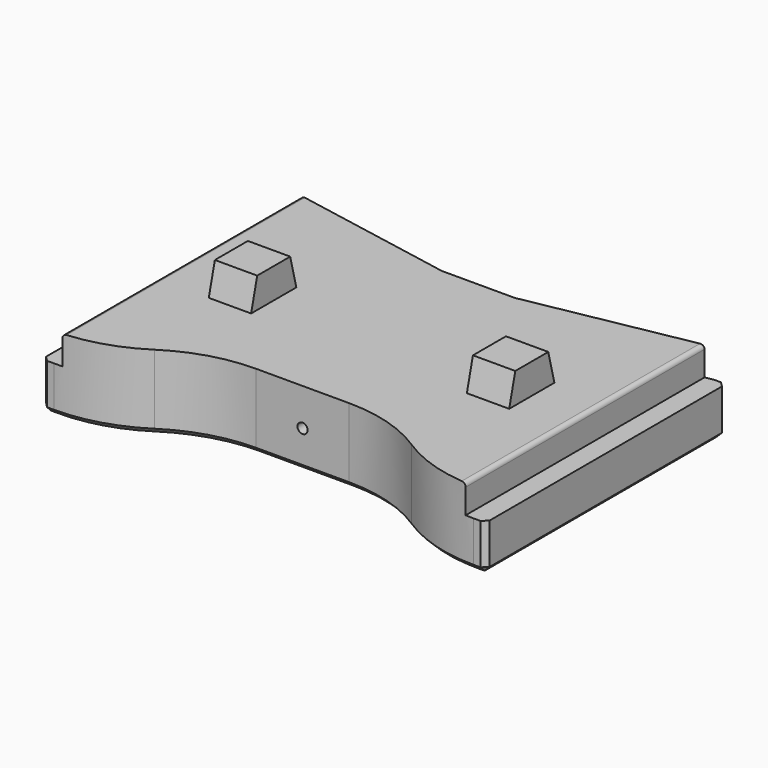
from build123d import *

# Parameters (mm, degrees)
SKETCH_W        = 44
SKETCH_H        = 42
PAD_DEPTH       = 2
SKETCH001_W     = 40
SKETCH001_H     = 42
PAD001_DEPTH    = 2.85
SKETCH002_W     = 4.2
SKETCH002_H     = 5.6
PAD002_DEPTH    = 3
POCKET_DEPTH    = 44.001
SKETCH004_W     = 40
SKETCH004_H     = 8.35
PAD003_DEPTH    = 15
SKETCH005_W     = 40
SKETCH005_H     = 8.35
PAD004_DEPTH    = 15
POCKET001_DEPTH = 42.001
POCKET002_DEPTH = 13.201
FILLET_R        = 0.4
SKETCH008_W     = 44
SKETCH008_H     = 2.55
PAD005_DEPTH    = 42
POCKET003_DEPTH = 2.551
SKETCH009_R     = 0.5
POCKET004_DEPTH = 42.001
POCKET010_DEPTH = 17.851
CHAMFER002_SIZE = 0.5
POCKET017_START = -0.8
SKETCH019_R     = 0.5
POCKET017_DEPTH = 24.2


with BuildPart() as part:
    # Sketch → Pad (new body)
    with BuildSketch(Plane.XY):
        Rectangle(SKETCH_W, SKETCH_H)
    extrude(amount=PAD_DEPTH)

    # Sketch001 (on Face6 of Pad) → Pad001 (join)
    with BuildSketch(Plane.XY.offset(2)):
        Rectangle(SKETCH001_W, SKETCH001_H)
    extrude(amount=PAD001_DEPTH)

    # Sketch002 (on Face8 of Pad001) → Pad002 (join)
    with BuildSketch(Plane.XY.offset(4.85)):
        with Locations((-12.8, -0.1)):
            Rectangle(SKETCH002_W, SKETCH002_H)
        with Locations((12.8, -0.1)):
            Rectangle(SKETCH002_W, SKETCH002_H)
    extrude(amount=PAD002_DEPTH)

    # Sketch003 (on Face1 of Pad002) → Pocket (cut, through all)
    with BuildSketch(Plane.YZ.offset(22)):
        Polygon((-2.9, 4.85), (-2.9, 8.35), (-2.02, 8.35), align=None)
        Polygon((2.7, 8.35), (2.7, 4.85), (1.82, 8.35), align=None)
    extrude(amount=-POCKET_DEPTH, mode=Mode.SUBTRACT)

    # Sketch004 (on Face2 of Pocket) → Pad003 (join)
    with BuildSketch(Plane.XZ.offset(21)):
        with Locations((0, 9.025)):
            Rectangle(SKETCH004_W, SKETCH004_H)
    extrude(amount=-PAD003_DEPTH)

    # Sketch005 (on Face2 of Pad003) → Pad004 (join)
    with BuildSketch(Plane(origin=(0, 21, 0), x_dir=(-1, 0, 0), z_dir=(0, 1, 0))):
        with Locations((0, 9.025)):
            Rectangle(SKETCH005_W, SKETCH005_H)
    extrude(amount=-PAD004_DEPTH)

    # Sketch006 (on Face24 of Pad004) → Pocket001 (cut, through all)
    with BuildSketch(Plane(origin=(-20, 0, 0), x_dir=(0, -1, 0), z_dir=(-1, 0, 0))):
        with BuildLine():
            Line((-21, 13.2), (-20, 13.2))
            ThreePointArc((-20, 13.2), (-20.707107, 12.907107), (-21, 12.2))
            Line((-21, 12.2), (-21, 13.2))
        make_face()
        with BuildLine():
            ThreePointArc((-15, 12.2), (-15.292893, 12.907107), (-16, 13.2))
            Line((-16, 13.2), (-6, 13.2))
            Line((-6, 13.2), (-6, 4.85))
            Line((-6, 4.85), (-18.25, 4.85))
            Line((-18.25, 10.6), (-18.25, 4.85))
            Line((-17.125, 10.6), (-18.25, 10.6))
            ThreePointArc((-17.125, 10.6), (-15.794998, 11.044723), (-15, 12.2))
        make_face()
        with BuildLine():
            Line((18.35, 4.85), (18.35, 11.2))
            Line((18.35, 11.2), (16, 11.2))
            ThreePointArc((16, 13.2), (15, 12.2), (16, 11.2))
            Line((6, 13.2), (16, 13.2))
            Line((6, 4.85), (6, 13.2))
            Line((6, 4.85), (18.35, 4.85))
        make_face()
    extrude(amount=-POCKET001_DEPTH, mode=Mode.SUBTRACT)

    # Sketch007 (on Face18 of Pocket001) → Pocket002 (cut, through all)
    with BuildSketch(Plane(origin=(0, 0, 0), x_dir=(1, 0, 0), z_dir=(0, 0, -1))):
        with BuildLine():
            ThreePointArc((-17, 21), (-20.535534, 19.535534), (-22, 16))
            Line((-22, 21), (-22, 16))
            Line((-17, 21), (-22, 21))
        make_face()
        with BuildLine():
            ThreePointArc((22, 16), (20.535534, 19.535534), (17, 21))
            Line((22, 21), (17, 21))
            Line((22, 16), (22, 21))
        make_face()
        with BuildLine():
            ThreePointArc((17, -21), (20.535534, -19.535534), (22, -16))
            Line((22, -21), (22, -16))
            Line((22, -21), (17, -21))
        make_face()
        with BuildLine():
            ThreePointArc((-22, -16), (-20.535534, -19.535534), (-17, -21))
            Line((-22, -21), (-17, -21))
            Line((-22, -16), (-22, -21))
        make_face()
    extrude(amount=-POCKET002_DEPTH, mode=Mode.SUBTRACT)

    # Fillet
    fillet_edges = [part.edges().sort_by_distance(p)[0] for p in [
        (0, -21, 13.2),
        (20, -18, 13.2),
        (-20, -18, 13.2),
        (20, -18.35, 8.025),
        (-20, -18.35, 8.025),
        (-20, 18, 13.2),
        (20, 18, 13.2),
        (20, 17.6875, 10.6),
        (20, 18.25, 7.725),
        (-20, 18.25, 7.725),
        (-20, 17.6875, 10.6),
        (20, -0.05, 4.85),
        (-20, -0.05, 4.85),
    ]]
    fillet(fillet_edges, radius=FILLET_R)

    # Sketch008 (on Face15 of Clone) → Pad005 (new body)
    with BuildSketch(Plane.XZ.offset(21)):
        with Locations((0, -1.275)):
            Rectangle(SKETCH008_W, SKETCH008_H)
    extrude(amount=-PAD005_DEPTH)

    # ShapeBinder → Pocket003 (cut, through all)
    with BuildSketch(Plane(origin=(-20.88316, 19.88316, 0), x_dir=(0, 1, 0), z_dir=(0, 0, 1))):
        with BuildLine():
            Line((1.11684, 1.11684), (-3.88316, 1.11684))
            ThreePointArc((-3.88316, 1.11684), (-0.347626, -0.347626), (1.11684, -3.88316))
            Line((1.11684, -3.88316), (1.11684, 1.11684))
        make_face()
        with BuildLine():
            Line((-40.88316, 1.11684), (-40.88316, -3.88316))
            ThreePointArc((-40.88316, -3.88316), (-39.418694, -0.347626), (-35.88316, 1.11684))
            Line((-35.88316, 1.11684), (-40.88316, 1.11684))
        make_face()
        with BuildLine():
            Line((-40.88316, -37.88316), (-40.88316, -42.88316))
            Line((-40.88316, -42.88316), (-35.88316, -42.88316))
            ThreePointArc((-35.88316, -42.88316), (-39.418694, -41.418694), (-40.88316, -37.88316))
        make_face()
        with BuildLine():
            ThreePointArc((1.11684, -37.88316), (-0.347626, -41.418694), (-3.88316, -42.88316))
            Line((-3.88316, -42.88316), (1.11684, -42.88316))
            Line((1.11684, -42.88316), (1.11684, -37.88316))
        make_face()
    extrude(amount=-POCKET003_DEPTH, mode=Mode.SUBTRACT)

    # Sketch009 (on Face29 of Pocket003) → Pocket004 (cut, through all)
    with BuildSketch(Plane.XZ.offset(21)):
        with Locations((0, 1.15)):
            Circle(SKETCH009_R)
    extrude(amount=-POCKET004_DEPTH, mode=Mode.SUBTRACT)

    # ShapeBinder005 → Pocket010 (cut, through all)
    with BuildSketch(Plane(origin=(0, -16.15872, -4.65), x_dir=(0, 1, 0), z_dir=(0, 0, 1))):
        with BuildLine():
            Line((1.45872, -22), (1.45872, -20.8))
            ThreePointArc((1.45872, -20.8), (2.067221, -16.604371), (3.842579, -12.754477))
            ThreePointArc((3.842579, -12.754477), (5.641979, -8.852447), (6.25872, -4.6))
            Line((6.25872, -4.6), (6.25872, 4.6))
            ThreePointArc((6.25872, 4.6), (5.641979, 8.852447), (3.842579, 12.754477))
            ThreePointArc((3.842579, 12.754477), (2.067221, 16.60437), (1.45872, 20.8))
            Line((1.45872, 20.8), (1.45872, 22))
            Line((1.45872, 22), (0.15872, 22))
            ThreePointArc((0.15872, 22), (-3.376814, 20.535534), (-4.84128, 17))
            Line((-4.84128, 17), (-4.84128, -17))
            ThreePointArc((-4.84128, -17), (-3.376814, -20.535534), (0.15872, -22))
            Line((0.15872, -22), (1.45872, -22))
        make_face()
        with BuildLine():
            Line((37.15872, -17), (37.15872, 17))
            ThreePointArc((37.15872, 17), (35.694254, 20.535534), (32.15872, 22))
            Line((32.15872, 22), (31.260407, 22))
            Line((31.260407, 22), (31.260407, 20.818291))
            Line((31.260407, 20.818291), (28.060407, 3.618291))
            Line((28.060407, 3.618291), (28.060407, -3.618291))
            Line((28.060407, -3.618291), (31.260407, -20.818291))
            Line((31.260407, -20.818291), (31.260407, -22))
            Line((31.260407, -22), (32.15872, -22))
            ThreePointArc((32.15872, -22), (35.694254, -20.535534), (37.15872, -17))
        make_face()
    extrude(amount=POCKET010_DEPTH, mode=Mode.SUBTRACT)

    # Chamfer002
    chamfer002_edges = [part.edges().sort_by_distance(p)[0] for p in [
        (-21.4, -14.7, -2.55),
        (-16.604371, -14.0915, -2.55),
        (-8.852447, -10.516741, -2.55),
        (0, -9.9, -2.55),
        (8.852447, -10.516741, -2.55),
        (16.604371, -14.0915, -2.55),
        (21.4, -14.7, -2.55),
        (22, 0.200843, -2.55),
        (21.409145, 15.101687, -2.55),
        (12.218291, 13.501687, -2.55),
        (0, 11.901687, -2.55),
        (-12.218291, 13.501687, -2.55),
        (-21.409145, 15.101687, -2.55),
        (-22, 0.200843, -2.55),
        (22, 15.101687, -0.275),
        (22, -14.7, -0.275),
        (-22, -14.7, -0.275),
        (-22, 15.101687, -0.275),
    ]]
    chamfer(chamfer002_edges, length=CHAMFER002_SIZE)

    # Sketch019 → Pocket017 (cut)
    with BuildSketch(Plane.XY.offset(4.85).offset(POCKET017_START)):
        with Locations((-12.8, -0.1)):
            Circle(SKETCH019_R)
        with Locations((12.8, -0.1)):
            Circle(SKETCH019_R)
    extrude(amount=-POCKET017_DEPTH, mode=Mode.SUBTRACT)


solid = part.part
